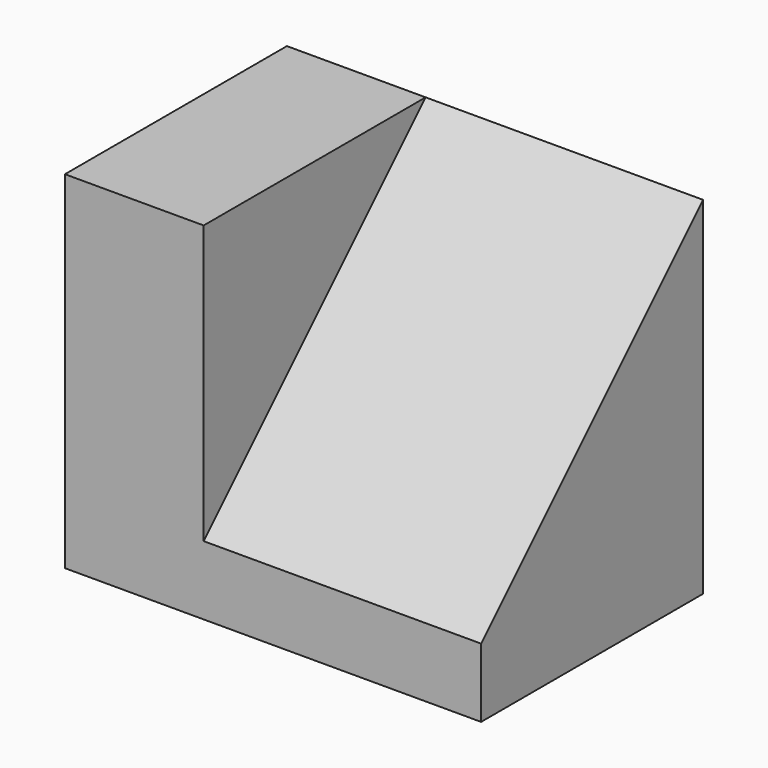
from build123d import *

# Parameters (mm, degrees)
F0_W     = 38.1
F0_H     = 31.75
F1_DEPTH = 25.4
F3_DEPTH = 25.4


with BuildPart() as f1:
    # F0 (on Front) → F1 (new body)
    with BuildSketch(Plane.XZ):
        with Locations((19.05, 15.875)):
            Rectangle(F0_W, F0_H)
    extrude(amount=F1_DEPTH)

    # F2 (on face) → F3 (cut)
    with BuildSketch(Plane.YZ.offset(38.1)):
        Polygon((-25.4, 6.309687), (0, 31.75), (-8.660507, 31.75), (-25.4, 31.75), align=None)
    extrude(amount=-F3_DEPTH, mode=Mode.SUBTRACT)


solid = f1.part
